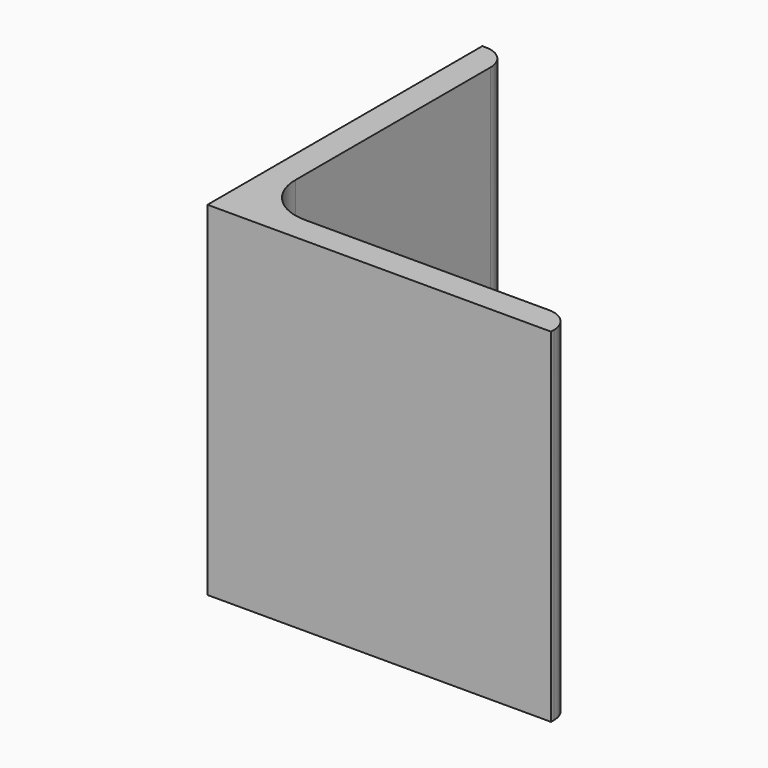
from build123d import *

# Parameters (mm, degrees)
EXTRUDE_DEPTH = 50


with BuildPart() as part:
    # Sketch → Extrude (new body)
    with BuildSketch(Plane.XY):
        with BuildLine():
            Line((0, 0), (50, 0))
            Line((50, 0), (50, 0.5))
            ThreePointArc((50, 0.5), (48.974874, 2.974874), (46.5, 4))
            Line((46.5, 4), (11, 4))
            ThreePointArc((4, 11), (6.050253, 6.050253), (11, 4))
            Line((4, 46.5), (4, 11))
            ThreePointArc((4, 46.5), (2.974874, 48.974874), (0.5, 50))
            Line((0, 50), (0.5, 50))
            Line((0, 0), (0, 50))
        make_face()
    extrude(amount=EXTRUDE_DEPTH)


solid = part.part
